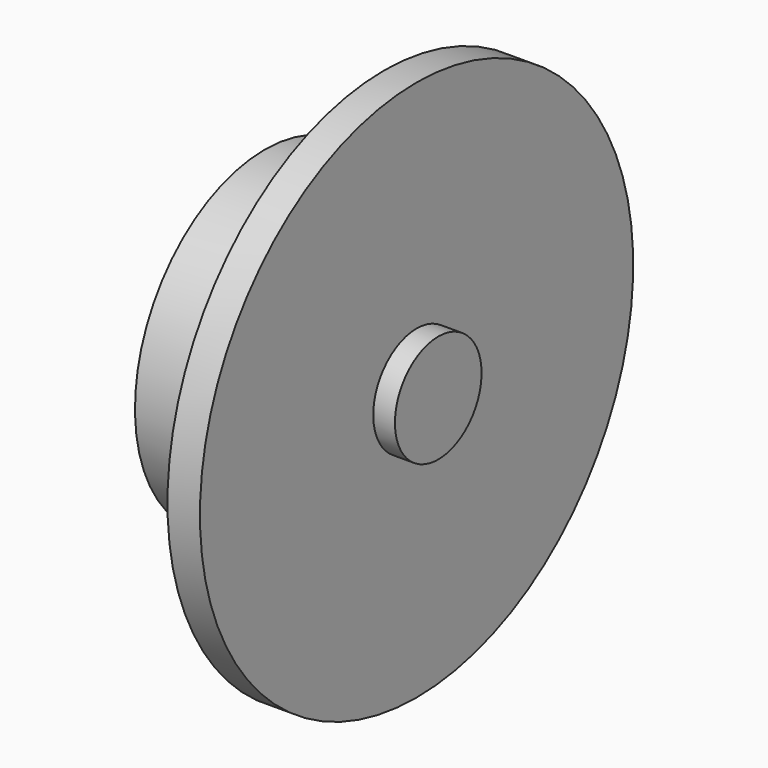
from build123d import *

# Parameters (mm, degrees)
F0_W = 2
F0_H = 5


with BuildPart() as f1:
    # F0 (on Front) → F1 (revolve)
    with BuildSketch(Plane.XZ):
        Polygon((3, 31.243574), (0, 31.243574), (0, 29.593574), (1.65, 29.593574), (1.65, 28.043574), (1.65, 24.292096), (1.65, 22.893574), (0, 22.893574), (0, 22.424051), (0, 21.243574), (0, 20.385211), (0, 19.243574), (0, 18.385211), (0, 18.346371), (0, 6.243574), (3, 6.243574), (3, 11.243574), align=None)
        Polygon((1.65, 29.593574), (0, 29.593574), (0, 22.893574), (1.65, 22.893574), (1.65, 24.292096), (1.65, 28.043574), align=None)
        with Locations((4, 8.743574)):
            Rectangle(F0_W, F0_H)
        Polygon((0, 20.385211), (0, 21.243574), (-0.76535, 21.243574), (-11, 21.243574), (-11, 20.385211), (-11, 19.243574), (0, 19.243574), align=None)
    revolve(axis=Axis((4, 0, 6.243574), (1, 0, 0)))


solid = f1.part
